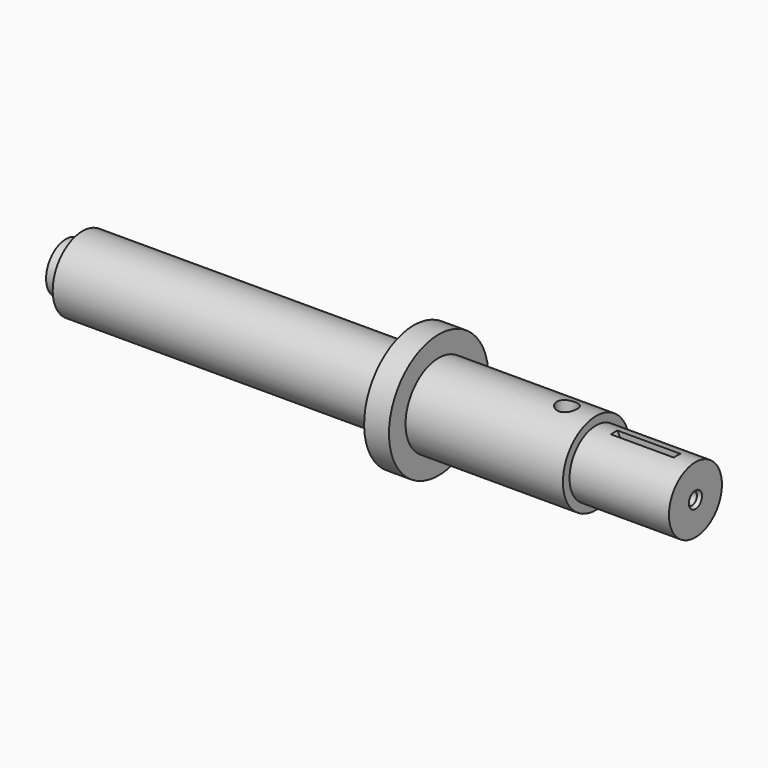
from build123d import *

# Parameters (mm, degrees)
F1_R                 = 6.35
F6_DEPTH             = 0.79375
F4_D                 = 2.38125
F4_DEPTH             = 3.175
F4_CSINK_D           = 3.14325
F4_CSINK_ANGLE       = 60
F4_TIP               = 0.7153996745
F4_ON_F8_D           = 2.38125
F4_ON_F8_DEPTH       = 3.175
F4_ON_F8_CSINK_D     = 3.14325
F4_ON_F8_CSINK_ANGLE = 60
F4_ON_F8_TIP         = 0.7153996745


with BuildPart() as f0:
    # F5 (on Front) → F0 (revolve)
    with BuildSketch(Plane.XZ):
        Polygon((-60.325, -3.175), (-60.325, -7.9375), (60.325, -7.9375), (60.325, -1.5875), (41.275, -1.5875), (41.275, 0), (11.1125, 0), (11.1125, 3.96875), (6.35, 3.96875), (6.35, -2.38125), (3.175, -2.38125), (3.175, -0.79375), (-57.15, -0.79375), (-57.15, -3.175), align=None)
    revolve(axis=Axis((0, 0, -7.9375), (1, 0, 0)))

    # F1 (on Front) → F6 (cut, symmetric)
    with BuildSketch(Plane.XZ):
        with Locations((50.8, 0.396875)):
            Circle(F1_R)
    extrude(amount=F6_DEPTH, both=True, mode=Mode.SUBTRACT)

    # F2 (on Front) → F7 (revolve, cut)
    with BuildSketch(Plane.XZ):
        with BuildLine():
            Line((37.43325, -20.3236020014), (37.69995, 4.3383559637))
            ThreePointArc((37.69995, 4.3383559637), (36.7317963469, 4.6552760961), (35.71875, 4.7625))
            Line((35.71875, 4.7625), (35.71875, -20.6375))
            ThreePointArc((35.71875, -20.6375), (36.5902490252, -20.5583786828), (37.43325, -20.3236020014))
        make_face()
    revolve(axis=Axis((35.71875, 0, 0), (0, 0, -1)), mode=Mode.SUBTRACT)

    # F4
    with Locations(Plane.YZ.offset(60.325)):
        with Locations((0, -7.9375)):
            CounterSinkHole(F4_D / 2, F4_CSINK_D / 2, depth=F4_DEPTH, counter_sink_angle=F4_CSINK_ANGLE)
            with Locations((0, 0, -(F4_DEPTH + F4_TIP / 2))):  # 118° drill point
                Cone(0, F4_D / 2, F4_TIP, mode=Mode.SUBTRACT)

    # F4 on F8
    with Locations(Plane(origin=(-60.325, 0, 0), x_dir=(0, -1, 0), z_dir=(-1, 0, 0))):
        with Locations((0, -7.9375)):
            CounterSinkHole(F4_ON_F8_D / 2, F4_ON_F8_CSINK_D / 2, depth=F4_ON_F8_DEPTH, counter_sink_angle=F4_ON_F8_CSINK_ANGLE)
            with Locations((0, 0, -(F4_ON_F8_DEPTH + F4_ON_F8_TIP / 2))):  # 118° drill point
                Cone(0, F4_ON_F8_D / 2, F4_ON_F8_TIP, mode=Mode.SUBTRACT)


solid = f0.part
